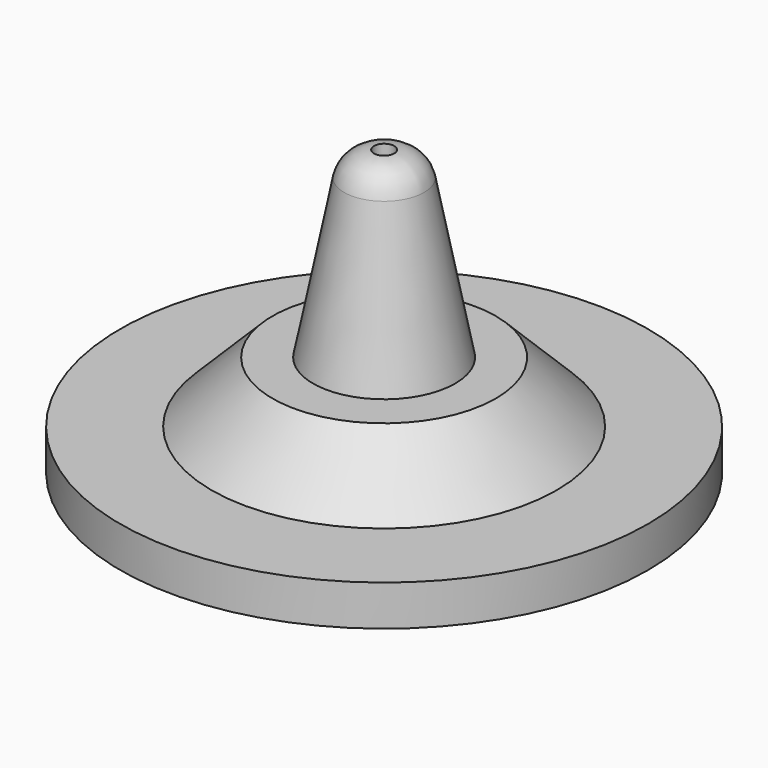
from build123d import *


with BuildPart() as f1:
    # F0 (on Front) → F1 (revolve)
    with BuildSketch(Plane.XZ):
        with BuildLine():
            Line((0.25, 7), (0.25, 0))
            Line((0.25, 0), (6.5, 0))
            Line((6.5, 0), (6.5, 1))
            Line((6.5, 1), (4.25, 1))
            Line((4.25, 1), (2.75, 2.5))
            Line((2.75, 2.5), (1.75, 2.5))
            Line((1.75, 2.5), (0.98597, 6.394388))
            ThreePointArc((0.98597, 6.394388), (0.726555, 6.829133), (0.25, 7))
        make_face()
    revolve(axis=Axis((0, 0, 4.403635), (0, 0, 1)))


solid = f1.part
